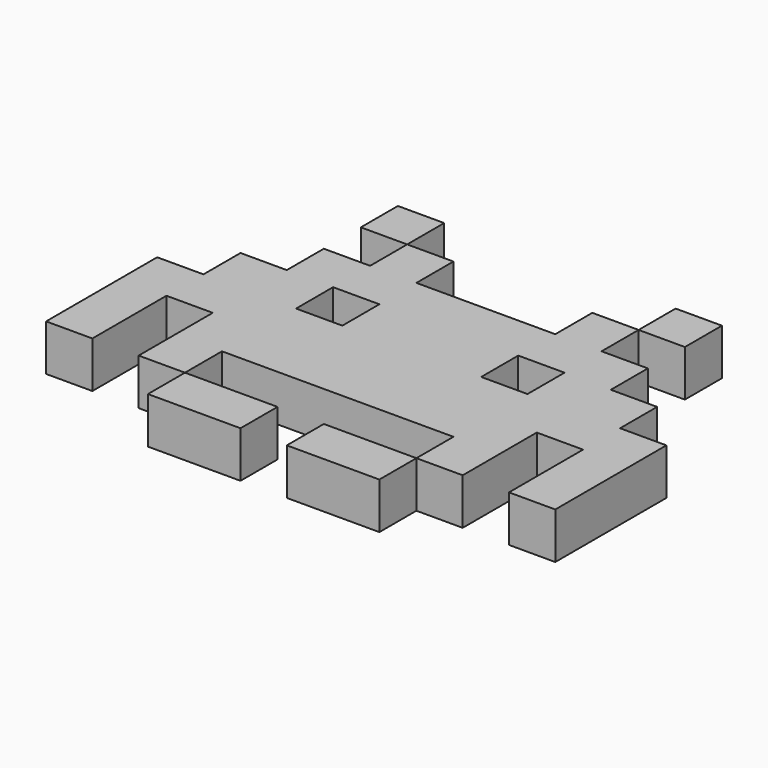
from build123d import *

# Parameters (mm, degrees)
F0_W     = 10
F0_H     = 10
F0_W_2   = 20
F1_DEPTH = 10


with BuildPart() as f1:
    # F0 (on Top) → F1 (new body)
    with BuildSketch(Plane.XY):
        Polygon((15, 15), (-15, 15), (-15, 25), (-25, 25), (-25, 15), (-35, 15), (-35, 5), (-45, 5), (-45, -5), (-55, -5), (-55, -35), (-45, -35), (-45, -15), (-35, -15), (-35, -35), (-25, -35), (-25, -25), (25, -25), (25, -35), (35, -35), (35, -15), (45, -15), (45, -35), (55, -35), (55, -5), (45, -5), (45, 5), (35, 5), (35, 15), (25, 15), (25, 25), (15, 25), align=None)
        with Locations((-20, 0)):
            Rectangle(F0_W, F0_H, mode=Mode.SUBTRACT)
        with Locations((20, 0)):
            Rectangle(F0_W, F0_H, mode=Mode.SUBTRACT)
        with Locations((-30, 30)):
            Rectangle(F0_W, F0_H)
        with Locations((-15, -40)):
            Rectangle(F0_W_2, F0_H)
        with Locations((30, 30)):
            Rectangle(F0_W, F0_H)
        with Locations((15, -40)):
            Rectangle(F0_W_2, F0_H)
    extrude(amount=F1_DEPTH)


solid = f1.part
